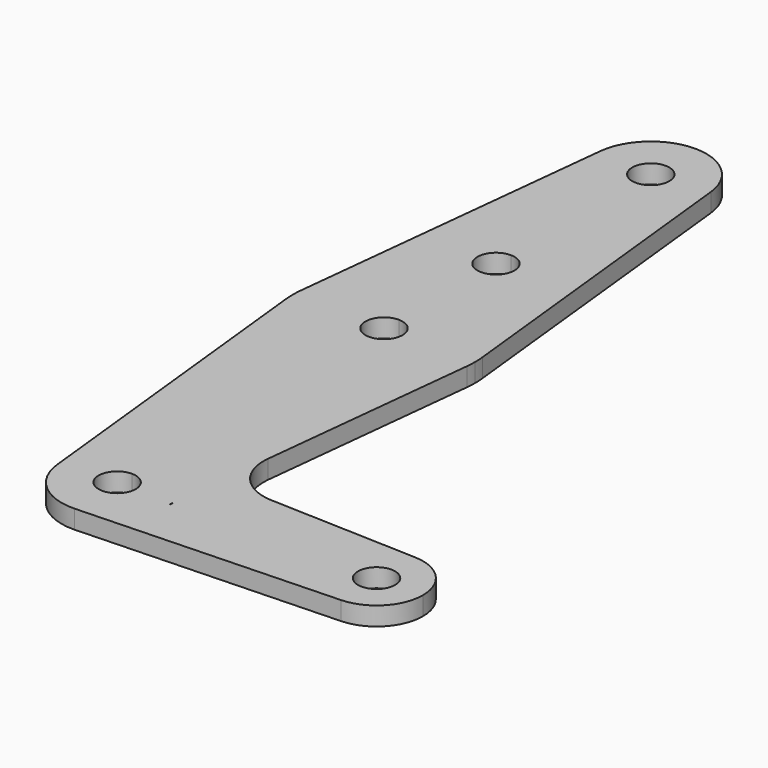
from build123d import *

# Parameters (mm, degrees)
F1_DEPTH = 3.175
F2_R     = 8.1915


with BuildPart() as f1:
    # F0 (on Top) → F1 (new body)
    with BuildSketch(Plane.XY):
        with BuildLine():
            Line((-9.4706583193, 115.316), (-15.5318796436, 58.81624))
            ThreePointArc((-15.5318796436, 58.81624), (-10.4400025374, 68.7698962138), (0, 72.771))
            Line((0, 72.771), (0, 77.9605561018))
            ThreePointArc((0, 77.9605561018), (-3.175, 81.1355561018), (0, 84.3105561018))
            Line((0, 84.3105561018), (0, 104.775))
            ThreePointArc((0, 104.775), (-7.0853025694, 107.9341447943), (-9.4706583193, 115.316))
        make_face()
        with BuildLine():
            Line((0, 77.9605561018), (0, 72.771))
            ThreePointArc((0, 72.771), (10.4400025374, 68.7698962138), (15.5318796436, 58.81624))
            Line((15.5318796436, 58.81624), (9.4706583193, 115.316))
            ThreePointArc((9.4706583193, 115.316), (9.5114048776, 114.8087261096), (9.525, 114.3))
            ThreePointArc((9.525, 114.3), (6.7351920908, 107.5648079092), (0, 104.775))
            Line((0, 104.775), (0, 84.3105561018))
            ThreePointArc((0, 84.3105561018), (2.2450640303, 83.3806201321), (3.175, 81.1355561018))
            ThreePointArc((3.175, 81.1355561018), (2.2450640303, 78.8904920715), (0, 77.9605561018))
        make_face()
        with BuildLine():
            ThreePointArc((9.4706583193, 115.316), (0, 123.825), (-9.4706583193, 115.316))
            ThreePointArc((-9.4706583193, 115.316), (-7.0853025694, 107.9341447943), (0, 104.775))
            ThreePointArc((0, 104.775), (6.7351920908, 107.5648079092), (9.525, 114.3))
            ThreePointArc((9.525, 114.3), (9.5114048776, 114.8087261096), (9.4706583193, 115.316))
        make_face()
        with BuildLine():
            ThreePointArc((3.175, 114.3), (2.2450640303, 112.0549359697), (0, 111.125))
            ThreePointArc((0, 111.125), (-2.2450640303, 116.5450640303), (3.175, 114.3))
        make_face(mode=Mode.SUBTRACT)
        with BuildLine():
            ThreePointArc((-9.4706583193, -1.016), (-7.0853025694, 6.3658552057), (0, 9.525))
            Line((0, 9.525), (0, 9.5310804347))
            Line((0, 9.5310804347), (0, 41.529))
            ThreePointArc((0, 41.529), (-10.4400025374, 45.5301037862), (-15.5318796436, 55.48376))
            Line((-15.5318796436, 55.48376), (-9.4706583193, -1.016))
        make_face()
        with BuildLine():
            Line((0, 9.5310804347), (0.3401786191, 9.5189234427))
            Line((0.3401786191, 9.5189234427), (10.5616439649, 9.1536380719))
            Line((10.5616439649, 9.1536380719), (15.5318796436, 55.48376))
            ThreePointArc((15.5318796436, 55.48376), (10.4400025374, 45.5301037862), (0, 41.529))
            Line((0, 41.529), (0, 9.5310804347))
        make_face()
        with BuildLine():
            Line((0, 53.975), (0, 41.529))
            ThreePointArc((0, 41.529), (10.4400025374, 45.5301037862), (15.5318796436, 55.48376))
            ThreePointArc((15.5318796436, 55.48376), (15.5987039992, 56.3156891803), (15.621, 57.15))
            ThreePointArc((15.621, 57.15), (15.5987039992, 57.9843108197), (15.5318796436, 58.81624))
            ThreePointArc((15.5318796436, 58.81624), (10.4400025374, 68.7698962138), (0, 72.771))
            Line((0, 72.771), (0, 60.325))
            ThreePointArc((0, 60.325), (2.2450640303, 59.3950640303), (3.175, 57.15))
            ThreePointArc((3.175, 57.15), (2.2450640303, 54.9049359697), (0, 53.975))
        make_face()
        with BuildLine():
            ThreePointArc((-15.5318796436, 55.48376), (-10.4400025374, 45.5301037862), (0, 41.529))
            Line((0, 41.529), (0, 53.975))
            ThreePointArc((0, 53.975), (-3.175, 57.15), (0, 60.325))
            Line((0, 60.325), (0, 72.771))
            ThreePointArc((0, 72.771), (-10.4400025374, 68.7698962138), (-15.5318796436, 58.81624))
            ThreePointArc((-15.5318796436, 58.81624), (-15.621, 57.15), (-15.5318796436, 55.48376))
        make_face()
        with BuildLine():
            Line((9.525, 0), (3.175, 0))
            ThreePointArc((3.175, 0), (-2.2450640303, -2.2450640303), (0, 3.175))
            Line((0, 3.175), (0, 9.525))
            ThreePointArc((0, 9.525), (-7.0853025694, 6.3658552057), (-9.4706583193, -1.016))
            ThreePointArc((-9.4706583193, -1.016), (-6.2382963926, -7.1978665672), (0.3401785714, -9.5189234444))
            ThreePointArc((0.3401785714, -9.5189234444), (6.4913832809, -6.9704783266), (9.4706583193, -1.016))
            ThreePointArc((9.4706583193, -1.016), (9.5114048776, -0.5087261096), (9.525, 0))
        make_face()
        with BuildLine():
            ThreePointArc((0, 3.175), (2.2450640303, 2.2450640303), (3.175, 0))
            Line((3.175, 0), (9.525, 0))
            ThreePointArc((9.525, 0), (6.8544083022, 6.6138273206), (0.3401786191, 9.5189234427))
            ThreePointArc((0.3401786191, 9.5189234427), (0.1701164435, 9.5234807395), (0, 9.525))
            Line((0, 9.525), (0, 3.175))
        make_face()
        with BuildLine():
            ThreePointArc((0.3401786191, 9.5189234427), (6.8544083022, 6.6138273206), (9.525, 0))
            Line((9.525, 0), (9.5796534878, 0))
            Line((9.5796534878, 0), (10.5616439649, 9.1536380719))
            Line((10.5616439649, 9.1536380719), (0.3401786191, 9.5189234427))
        make_face()
        with BuildLine():
            Line((10.5616439649, 9.1536380719), (9.5796534878, 0))
            Line((9.5796534878, 0), (36.5125, 0))
            ThreePointArc((36.5125, 0), (38.9384772185, 5.7120069047), (44.7334821429, 7.9324362036))
            Line((44.7334821429, 7.9324362036), (10.5616439649, 9.1536380719))
        make_face()
        with BuildLine():
            Line((36.5125, 0), (9.5796534878, 0))
            Line((9.5796534878, 0), (9.4706583193, -1.016))
            ThreePointArc((9.4706583193, -1.016), (6.4913832809, -6.9704783266), (0.3401785714, -9.5189234444))
            Line((0.3401785714, -9.5189234444), (44.7334821429, -7.9324362036))
            ThreePointArc((44.7334821429, -7.9324362036), (38.9384772185, -5.7120069047), (36.5125, 0))
        make_face()
        with BuildLine():
            ThreePointArc((44.7334821429, 7.9324362036), (38.9384772185, 5.7120069047), (36.5125, 0))
            ThreePointArc((36.5125, 0), (38.9384772185, -5.7120069047), (44.7334821429, -7.9324362036))
            ThreePointArc((44.7334821429, -7.9324362036), (50.1620069047, -5.5115227815), (52.3875, 0))
            ThreePointArc((52.3875, 0), (50.1620069047, 5.5115227815), (44.7334821429, 7.9324362036))
        make_face()
        with BuildLine():
            ThreePointArc((47.625, 0), (44.45, -3.175), (41.275, 0))
            ThreePointArc((41.275, 0), (44.45, 3.175), (47.625, 0))
        make_face(mode=Mode.SUBTRACT)
    extrude(amount=F1_DEPTH)

    # F2
    f2_edges = [f1.edges().sort_by_distance(p)[0] for p in [
        (10.561644, 9.153638, 1.5875),
    ]]
    fillet(f2_edges, radius=F2_R)


solid = f1.part
